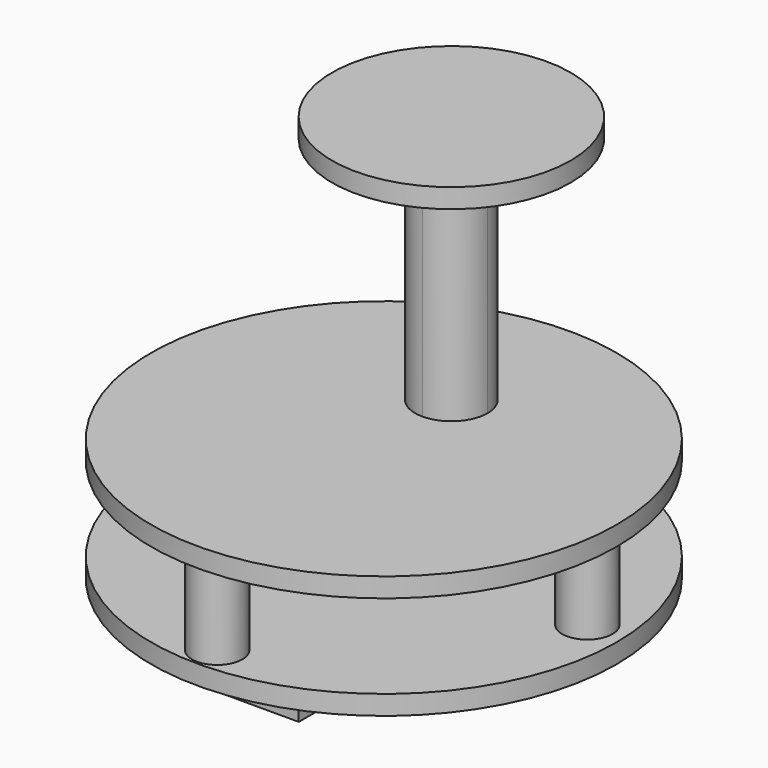
from build123d import *

# Parameters (mm, degrees)
F0_R      = 90
F1_DEPTH  = 7.493
F5_DEPTH  = 88.9
F6_R      = 46.1325578262
F7_DEPTH  = 7.5
F9_DEPTH  = 30
F10_DEPTH = 20
F11_R     = 9.7285049655
F12_DEPTH = 37.084
F13_DEPTH = 37.084
F14_DEPTH = 35.306
F15_DEPTH = 35.56


with BuildPart() as f1:
    # F0 (on Top) → F1 (new body)
    with BuildSketch(Plane.XY):
        with Locations((0, -4.4089061508)):
            Circle(F0_R)
    extrude(amount=-F1_DEPTH)


with BuildPart() as f2_1:
    # F2: copy of F1
    add(f1.part.moved(Location((0, 0, 40))))


with BuildPart() as f3_1:
    # F3: copy of F2_1
    add(f2_1.part)


with BuildPart() as f5:
    # F4 (on face) → F5 (new body)
    with BuildSketch(Plane.XY.offset(40)):
        with BuildLine():
            ThreePointArc((0, 14.2130103131), (9.9101441584, 18.3179264286), (14.0150602738, 28.2280705869))
            ThreePointArc((14.0150602738, 28.2280705869), (-9.9101441584, 38.1382147453), (0, 14.2130103131))
        make_face()
    extrude(amount=F5_DEPTH)

    # F6 (on face) → F7 (join)
    with BuildSketch(Plane.XY.offset(128.9)):
        with Locations((0, 28.2280705869)):
            Circle(F6_R)
    extrude(amount=F7_DEPTH)


with BuildPart() as f1_1:
    add(f1.part)

    # F8 (on face) → F9 (join)
    with BuildSketch(Plane(origin=(0, 0, -7.493), x_dir=(1, 0, 0), z_dir=(0, 0, -1))):
        Polygon((26.8880799413, -17.2139294446), (0, -17.2139294446), (-26.8880799413, -17.2139294446), (-26.8880799413, -38.7959592044), (26.8880799413, -38.7959592044), align=None)
    extrude(amount=F9_DEPTH)

    # F8 (on face) → F10 (join)
    with BuildSketch(Plane(origin=(0, 0, -7.493), x_dir=(1, 0, 0), z_dir=(0, 0, -1))):
        Polygon((-14.5946890116, 34.5707647502), (0, 34.5707647502), (14.5946890116, 34.5707647502), (14.5946890116, 63.7795217335), (-14.5946890116, 63.7795217335), align=None)
    extrude(amount=F10_DEPTH)


with BuildPart() as f12:
    # F11 (on Top) → F12 (new body)
    with BuildSketch(Plane.XY):
        with Locations((-0.983311329, -83.7388411164)):
            Circle(F11_R)
    extrude(amount=F12_DEPTH)


with BuildPart() as f13:
    # F11 (on Top) → F13 (new body)
    with BuildSketch(Plane.XY):
        with Locations((75.9330913424, -0.9806894232)):
            Circle(F11_R)
    extrude(amount=F13_DEPTH)


with BuildPart() as f14:
    # F11 (on Top) → F14 (new body)
    with BuildSketch(Plane.XY):
        with Locations((-76.9260898232, -1.9543207018)):
            Circle(F11_R)
    extrude(amount=F14_DEPTH)


with BuildPart() as f15:
    # F11 (on Top) → F15 (new body)
    with BuildSketch(Plane.XY):
        with Locations((0, 72.0412135124)):
            Circle(F11_R)
    extrude(amount=F15_DEPTH)


solid = Compound([f2_1.part, f3_1.part, f5.part, f1_1.part, f12.part, f13.part, f14.part, f15.part])
